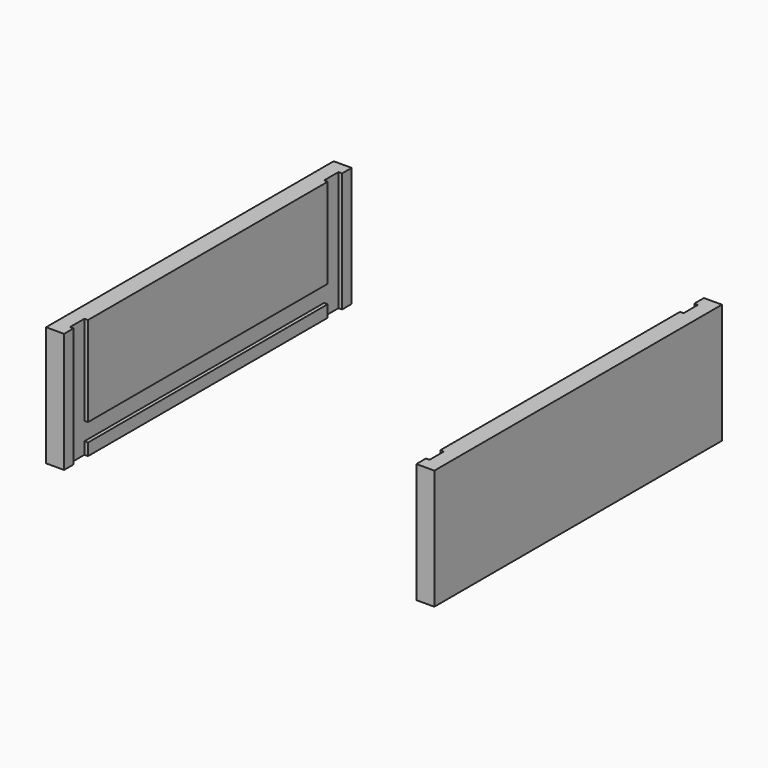
from build123d import *

# Parameters (mm, degrees)
F1_DEPTH = 100
F2_W     = 250
F2_H     = 15
F3_DEPTH = 3


with BuildPart() as f1:
    # F0 (on Top) → F1 (new body)
    with BuildSketch(Plane.XY):
        Polygon((-162, 300), (-162, 0), (-147, 0), (-147, 10), (-150, 10), (-150, 25), (-147, 25), (-147, 275), (-150, 275), (-150, 290), (-147, 290), (-147, 300), align=None)
    extrude(amount=F1_DEPTH)

    # F2 (on face) → F3 (cut, through all)
    with BuildSketch(Plane.YZ.offset(-147)):
        with Locations((150, 17.5)):
            Rectangle(F2_W, F2_H)
    extrude(amount=-F3_DEPTH, mode=Mode.SUBTRACT)


with BuildPart() as f4_1:
    # F4: instance of F1
    add(f1.part.mirror(Plane.YZ))


solid = Compound([f1.part, f4_1.part])
